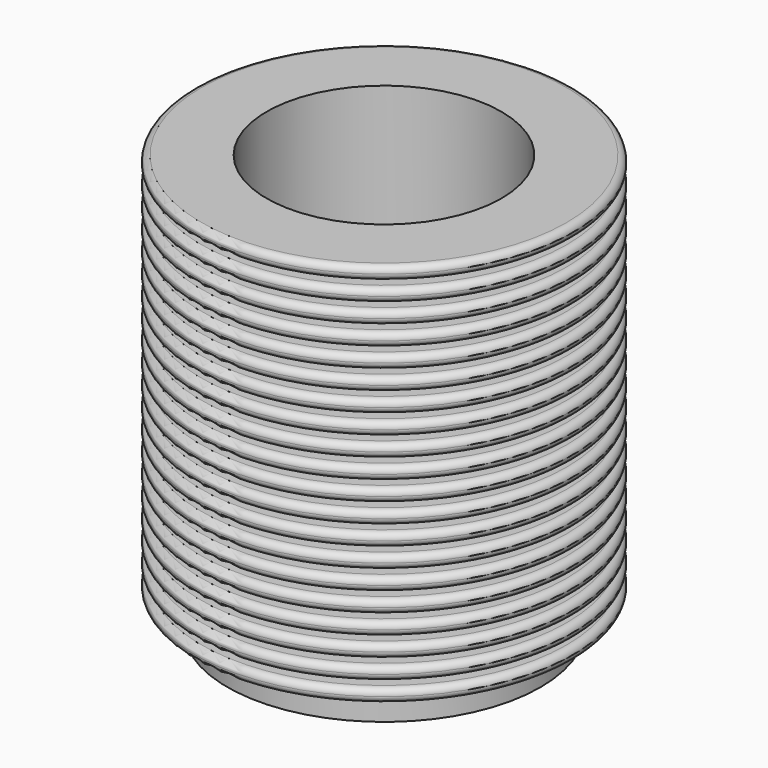
from build123d import *

# Parameters (mm, degrees)
F0_R     = 9
F1_DEPTH = 32
F4_DEPTH = 40


with BuildPart() as f1:
    # F0 (on Top) → F1 (new body)
    with BuildSketch(Plane.XY):
        Circle(F0_R)
    extrude(amount=F1_DEPTH)

    # F2 (on Front) → F3 (revolve)
    with BuildSketch(Plane.XZ):
        with BuildLine():
            Line((-12, 29.5), (-12, 30.5))
            Line((-12, 30.5), (-14, 30.5))
            ThreePointArc((-14, 30.5), (-14.353553, 30.353553), (-14.5, 30))
            ThreePointArc((-14.5, 30), (-14.353553, 29.646447), (-14, 29.5))
            Line((-14, 29.5), (-12, 29.5))
        make_face()
        with BuildLine():
            Line((-12, 31), (-12, 32))
            Line((-12, 32), (-14, 32))
            ThreePointArc((-14, 32), (-14.353553, 31.853553), (-14.5, 31.5))
            ThreePointArc((-14.5, 31.5), (-14.353553, 31.146447), (-14, 31))
            Line((-14, 31), (-12, 31))
        make_face()
        with BuildLine():
            Line((-12, 28), (-12, 29))
            Line((-12, 29), (-14, 29))
            ThreePointArc((-14, 29), (-14.353553, 28.853553), (-14.5, 28.5))
            ThreePointArc((-14.5, 28.5), (-14.353553, 28.146447), (-14, 28))
            Line((-14, 28), (-12, 28))
        make_face()
        with BuildLine():
            Line((-12, 26.5), (-12, 27.5))
            Line((-12, 27.5), (-14, 27.5))
            ThreePointArc((-14, 27.5), (-14.353553, 27.353553), (-14.5, 27))
            ThreePointArc((-14.5, 27), (-14.353553, 26.646447), (-14, 26.5))
            Line((-14, 26.5), (-12, 26.5))
        make_face()
        with BuildLine():
            Line((-12, 25), (-12, 26))
            Line((-12, 26), (-14, 26))
            ThreePointArc((-14, 26), (-14.353553, 25.853553), (-14.5, 25.5))
            ThreePointArc((-14.5, 25.5), (-14.353553, 25.146447), (-14, 25))
            Line((-14, 25), (-12, 25))
        make_face()
        with BuildLine():
            Line((-12, 23.5), (-12, 24.5))
            Line((-12, 24.5), (-14, 24.5))
            ThreePointArc((-14, 24.5), (-14.353553, 24.353553), (-14.5, 24))
            ThreePointArc((-14.5, 24), (-14.353553, 23.646447), (-14, 23.5))
            Line((-14, 23.5), (-12, 23.5))
        make_face()
        with BuildLine():
            Line((-12, 22), (-12, 23))
            Line((-12, 23), (-14, 23))
            ThreePointArc((-14, 23), (-14.353553, 22.853553), (-14.5, 22.5))
            ThreePointArc((-14.5, 22.5), (-14.353553, 22.146447), (-14, 22))
            Line((-14, 22), (-12, 22))
        make_face()
        with BuildLine():
            Line((-12, 20.5), (-12, 21.5))
            Line((-12, 21.5), (-14, 21.5))
            ThreePointArc((-14, 21.5), (-14.353553, 21.353553), (-14.5, 21))
            ThreePointArc((-14.5, 21), (-14.353553, 20.646447), (-14, 20.5))
            Line((-14, 20.5), (-12, 20.5))
        make_face()
        with BuildLine():
            Line((-12, 19), (-12, 20))
            Line((-12, 20), (-14, 20))
            ThreePointArc((-14, 20), (-14.353553, 19.853553), (-14.5, 19.5))
            ThreePointArc((-14.5, 19.5), (-14.353553, 19.146447), (-14, 19))
            Line((-14, 19), (-12, 19))
        make_face()
        with BuildLine():
            Line((-12, 17.5), (-12, 18.5))
            Line((-12, 18.5), (-14, 18.5))
            ThreePointArc((-14, 18.5), (-14.353553, 18.353553), (-14.5, 18))
            ThreePointArc((-14.5, 18), (-14.353553, 17.646447), (-14, 17.5))
            Line((-14, 17.5), (-12, 17.5))
        make_face()
        with BuildLine():
            Line((-14, 16), (-12, 16))
            Line((-12, 16), (-12, 17))
            Line((-12, 17), (-14, 17))
            ThreePointArc((-14, 17), (-14.353553, 16.853553), (-14.5, 16.5))
            ThreePointArc((-14.5, 16.5), (-14.353553, 16.146447), (-14, 16))
        make_face()
        with BuildLine():
            Line((-14, 14.5), (-12, 14.5))
            Line((-12, 14.5), (-12, 15.5))
            Line((-12, 15.5), (-14, 15.5))
            ThreePointArc((-14, 15.5), (-14.353553, 15.353553), (-14.5, 15))
            ThreePointArc((-14.5, 15), (-14.353553, 14.646447), (-14, 14.5))
        make_face()
        with BuildLine():
            Line((-14, 13), (-12, 13))
            Line((-12, 13), (-12, 14))
            Line((-12, 14), (-14, 14))
            ThreePointArc((-14, 14), (-14.353553, 13.853553), (-14.5, 13.5))
            ThreePointArc((-14.5, 13.5), (-14.353553, 13.146447), (-14, 13))
        make_face()
        with BuildLine():
            Line((-14, 11.5), (-12, 11.5))
            Line((-12, 11.5), (-12, 12.5))
            Line((-12, 12.5), (-14, 12.5))
            ThreePointArc((-14, 12.5), (-14.353553, 12.353553), (-14.5, 12))
            ThreePointArc((-14.5, 12), (-14.353553, 11.646447), (-14, 11.5))
        make_face()
        with BuildLine():
            Line((-14, 10), (-12, 10))
            Line((-12, 10), (-12, 11))
            Line((-12, 11), (-14, 11))
            ThreePointArc((-14, 11), (-14.353553, 10.853553), (-14.5, 10.5))
            ThreePointArc((-14.5, 10.5), (-14.353553, 10.146447), (-14, 10))
        make_face()
        with BuildLine():
            Line((-14, 8.5), (-12, 8.5))
            Line((-12, 8.5), (-12, 9.5))
            Line((-12, 9.5), (-14, 9.5))
            ThreePointArc((-14, 9.5), (-14.353553, 9.353553), (-14.5, 9))
            ThreePointArc((-14.5, 9), (-14.353553, 8.646447), (-14, 8.5))
        make_face()
        with BuildLine():
            Line((-14, 7), (-12, 7))
            Line((-12, 7), (-12, 8))
            Line((-12, 8), (-14, 8))
            ThreePointArc((-14, 8), (-14.353553, 7.853553), (-14.5, 7.5))
            ThreePointArc((-14.5, 7.5), (-14.353553, 7.146447), (-14, 7))
        make_face()
        with BuildLine():
            Line((-14, 5.5), (-12, 5.5))
            Line((-12, 5.5), (-12, 6.5))
            Line((-12, 6.5), (-14, 6.5))
            ThreePointArc((-14, 6.5), (-14.353553, 6.353553), (-14.5, 6))
            ThreePointArc((-14.5, 6), (-14.353553, 5.646447), (-14, 5.5))
        make_face()
        with BuildLine():
            Line((-14, 4), (-12, 4))
            Line((-12, 4), (-12, 5))
            Line((-12, 5), (-14, 5))
            ThreePointArc((-14, 5), (-14.353553, 4.853553), (-14.5, 4.5))
            ThreePointArc((-14.5, 4.5), (-14.353553, 4.146447), (-14, 4))
        make_face()
        with BuildLine():
            Line((-14, 2.5), (-12, 2.5))
            Line((-12, 2.5), (-12, 3.5))
            Line((-12, 3.5), (-14, 3.5))
            ThreePointArc((-14, 3.5), (-14.353553, 3.353553), (-14.5, 3))
            ThreePointArc((-14.5, 3), (-14.353553, 2.646447), (-14, 2.5))
        make_face()
        Polygon((-12, 0), (-9, 0), (-9, 32), (-12, 32), (-12, 31), (-12, 30.5), (-12, 29.5), (-12, 29), (-12, 28), (-12, 27.5), (-12, 26.5), (-12, 26), (-12, 25), (-12, 24.5), (-12, 23.5), (-12, 23), (-12, 22), (-12, 21.5), (-12, 20.5), (-12, 20), (-12, 19), (-12, 18.5), (-12, 17.5), (-12, 17), (-12, 16), (-12, 15.5), (-12, 14.5), (-12, 14), (-12, 13), (-12, 12.5), (-12, 11.5), (-12, 11), (-12, 10), (-12, 9.5), (-12, 8.5), (-12, 8), (-12, 7), (-12, 6.5), (-12, 5.5), (-12, 5), (-12, 4), (-12, 3.5), (-12, 2.5), align=None)
    revolve(axis=Axis((0, 0, 16.813509), (0, 0, 1)))

    # F0 (on Top) → F4 (cut)
    with BuildSketch(Plane.XY):
        Circle(F0_R)
    extrude(amount=F4_DEPTH, mode=Mode.SUBTRACT)


solid = f1.part
